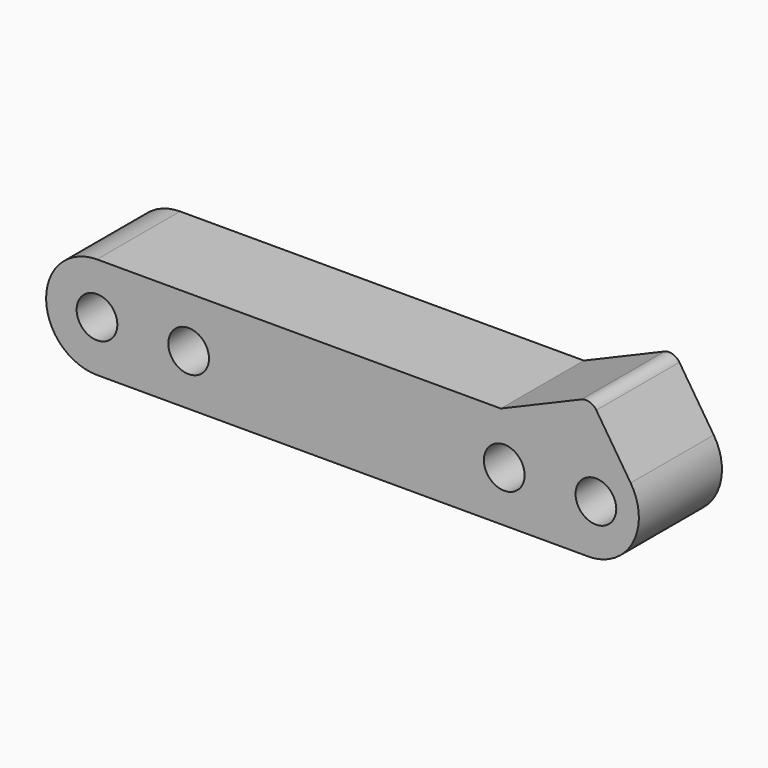
from build123d import *

# Parameters (mm, degrees)
F0_R     = 5
F1_DEPTH = 25.5
F3_R     = 3


with BuildPart() as f1:
    # F0 (on Front) → F1 (new body)
    with BuildSketch(Plane.XZ):
        with BuildLine():
            ThreePointArc((0, 25), (-12.5, 12.5), (0, 0))
            Line((0, 0), (121.362875, 0))
            ThreePointArc((121.362875, 0), (131.722813, 6.869895), (131.032577, 19.281477))
            Line((131.032577, 19.281477), (121.229075, 34.377547))
            Line((121.229075, 34.377547), (99.136958, 25))
            Line((99.136958, 25), (0, 25))
        make_face()
        with Locations((0, 12.5)):
            Circle(F0_R, mode=Mode.SUBTRACT)
        with BuildLine():
            ThreePointArc((27.5, 12.5), (22.5, 7.5), (17.5, 12.5))
            ThreePointArc((17.5, 12.5), (22.5, 17.5), (27.5, 12.5))
        make_face(mode=Mode.SUBTRACT)
        with Locations((100, 12.5)):
            Circle(F0_R, mode=Mode.SUBTRACT)
        with Locations((122.5, 12.5)):
            Circle(F0_R, mode=Mode.SUBTRACT)
    extrude(amount=F1_DEPTH)

    # F3
    f3_edges = [f1.edges().sort_by_distance(p)[0] for p in [
        (121.229075, -12.75, 34.377547),
    ]]
    fillet(f3_edges, radius=F3_R)


solid = f1.part
